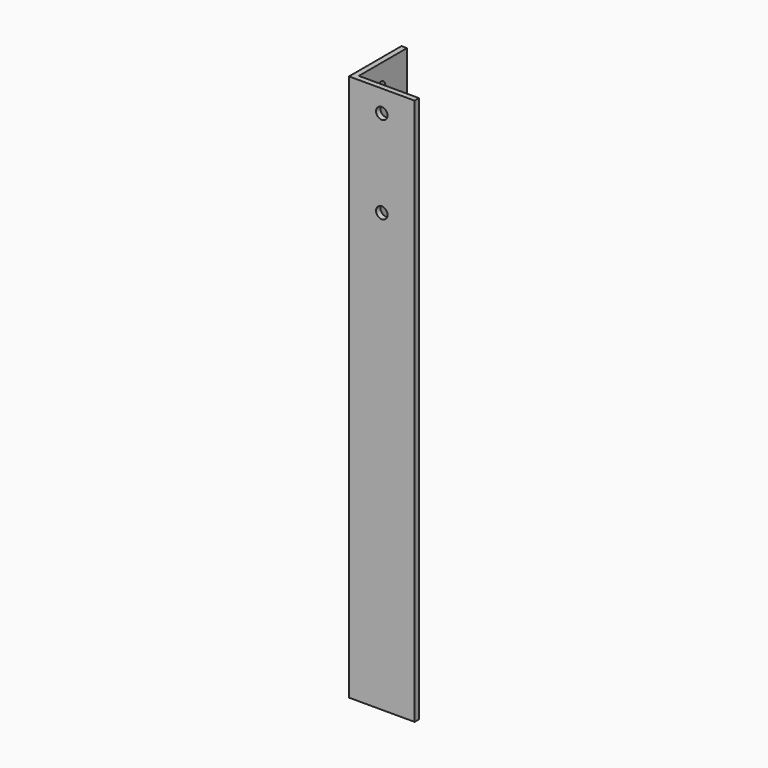
from build123d import *

# Parameters (mm, degrees)
F1_DEPTH = 500
F2_R     = 5.25
F3_DEPTH = 10
F4_R     = 5.25
F5_DEPTH = 10


with BuildPart() as f1:
    # F0 (on Top) → F1 (new body)
    with BuildSketch(Plane.XY):
        Polygon((-25, 30), (-30, 30), (-30, -30), (30, -30), (30, -25), (-25, -25), align=None)
    extrude(amount=-F1_DEPTH)

    # F2 (on face) → F3 (cut)
    with BuildSketch(Plane.XZ.offset(30)):
        with Locations((0, -20)):
            Circle(F2_R)
        with Locations((0, -100)):
            Circle(F2_R)
    extrude(amount=-F3_DEPTH, mode=Mode.SUBTRACT)

    # F4 (on face) → F5 (cut)
    with BuildSketch(Plane(origin=(-30, 0, 0), x_dir=(0, -1, 0), z_dir=(-1, 0, 0))):
        with Locations((0, -20)):
            Circle(F4_R)
        with Locations((0, -100)):
            Circle(F4_R)
    extrude(amount=-F5_DEPTH, mode=Mode.SUBTRACT)


solid = f1.part
